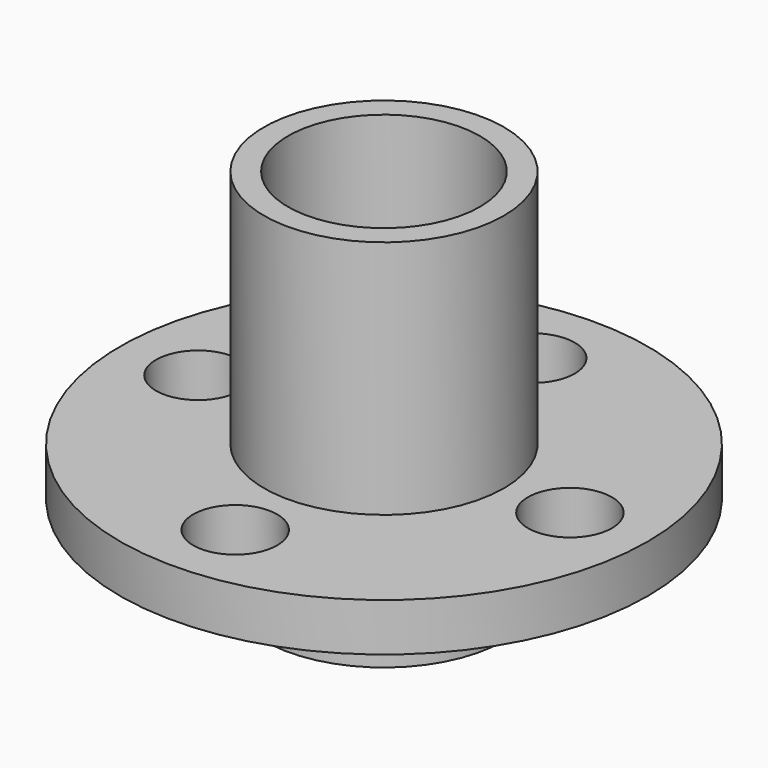
from build123d import *

# Parameters (mm, degrees)
SKETCH_R          = 11
PAD_DEPTH         = 2
SKETCH002_R       = 4
SKETCH002_R_2     = 1.75
POCKET_DEPTH      = 2.001
SKETCH003_R       = 5
PAD001_DEPTH      = 10
PAD001_DEPTH_BACK = 5.6
SKETCH004_R       = 4
POCKET001_DEPTH   = 15.601


with BuildPart() as part:
    # Sketch → Pad (new body)
    with BuildSketch(Plane.XY):
        Circle(SKETCH_R)
    extrude(amount=PAD_DEPTH)

    # Sketch002 (on Face3 of Pad) → Pocket (cut, through all)
    with BuildSketch(Plane.XY.offset(2)):
        Circle(SKETCH002_R)
        with Locations((0, -7.75)):
            Circle(SKETCH002_R_2)
        with Locations((-7.75, 0)):
            Circle(SKETCH002_R_2)
        with Locations((0, 7.75)):
            Circle(SKETCH002_R_2)
        with Locations((7.75, 0)):
            Circle(SKETCH002_R_2)
    extrude(amount=-POCKET_DEPTH, mode=Mode.SUBTRACT)

    # Sketch003 (on Face3 of Pocket) → Pad001 (join, two sides)
    with BuildSketch(Plane.XY.offset(2)) as pad001_sk:
        Circle(SKETCH003_R)
    extrude(amount=PAD001_DEPTH)
    extrude(pad001_sk.sketch, amount=-PAD001_DEPTH_BACK)

    # Sketch004 (on Face11 of Pad001) → Pocket001 (cut, through all)
    with BuildSketch(Plane.XY.offset(12)):
        Circle(SKETCH004_R)
    extrude(amount=-POCKET001_DEPTH, mode=Mode.SUBTRACT)


solid = part.part
